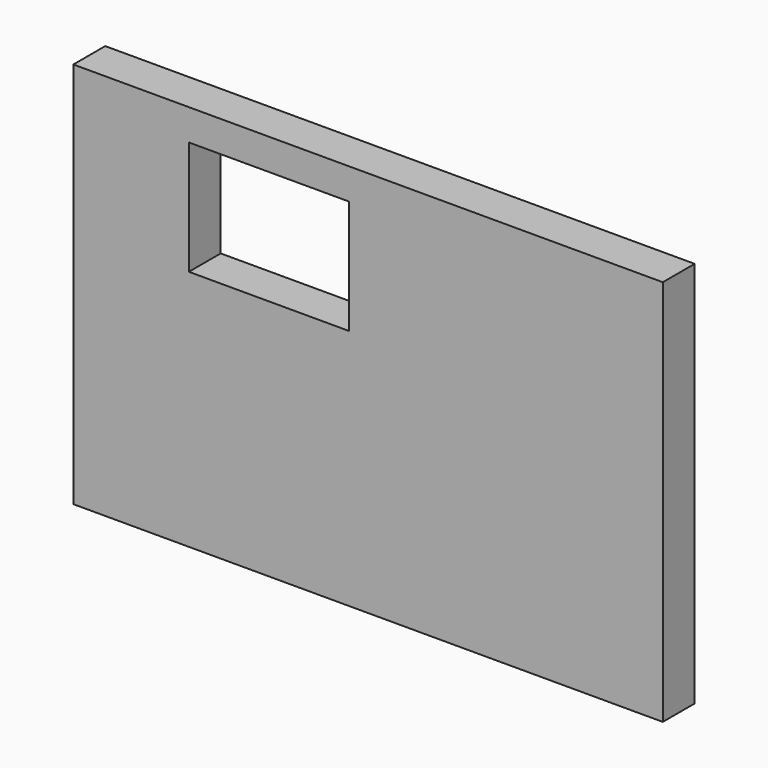
from build123d import *

# Parameters (mm, degrees)
F0_W     = 1005
F0_H     = 715
F1_DEPTH = 250


with BuildPart() as f1:
    # F0 (on Front) → F1 (new body)
    with BuildSketch(Plane.XZ):
        Polygon((0, 85), (0, 0), (3700, 0), (3700, 85), (3700, 2430), (0, 2430), align=None)
        with Locations((1227.5, 1877.5)):
            Rectangle(F0_W, F0_H, mode=Mode.SUBTRACT)
    extrude(amount=-F1_DEPTH)


solid = f1.part
